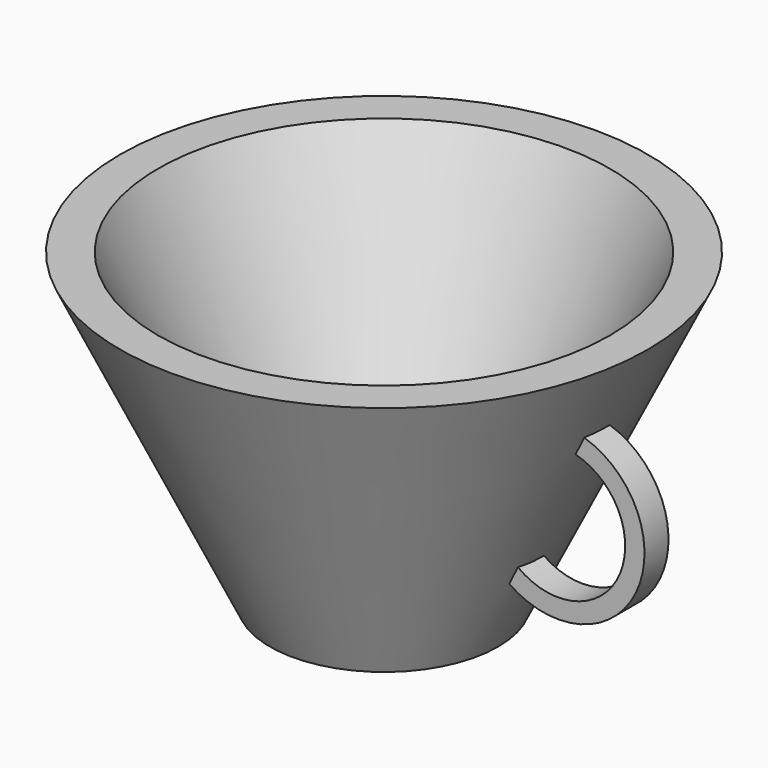
from build123d import *

# Parameters (mm, degrees)
F3_DEPTH = 5


with BuildPart() as f1:
    # F0 (on Front) → F1 (revolve)
    with BuildSketch(Plane.XZ):
        Polygon((0, 6.045529), (0, 0), (19.02223, 0), (43.988913, 51.716693), (37.648167, 51.716693), (15.600016, 6.045529), align=None)
    revolve(axis=Axis((0, 0, 3.022764), (0, 0, -1)))

    # F2 (on Front) → F3 (join)
    with BuildSketch(Plane.XZ):
        with BuildLine():
            Line((25.826393, 16.468454), (24.355218, 13.526103))
            ThreePointArc((24.355218, 13.526103), (45.977922, 18.71662), (36.615014, 38.886368))
            Line((36.615014, 38.886368), (35.41791, 35.865101))
            ThreePointArc((35.41791, 35.865101), (43.038244, 20.0271), (25.826393, 16.468454))
        make_face()
    extrude(amount=F3_DEPTH)


solid = f1.part
